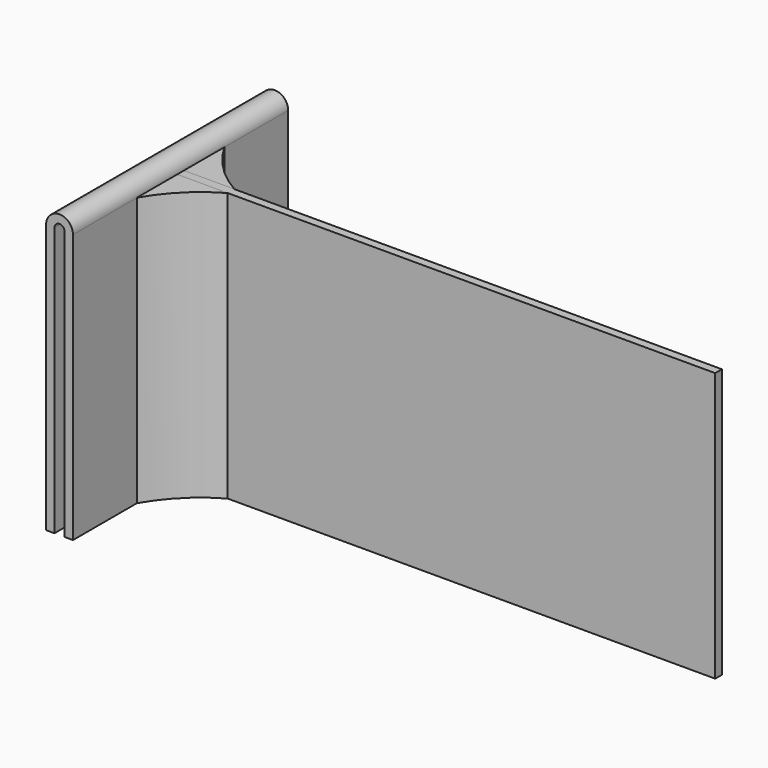
from build123d import *

# Parameters (mm, degrees)
F0_W     = 203.2
F0_H     = 101.6
F1_DEPTH = 1.5875
F3_DEPTH = 50.8
F5_DEPTH = 101.6


with BuildPart() as f1:
    # F0 (on Front) → F1 (new body, symmetric)
    with BuildSketch(Plane.XZ):
        with Locations((101.6, 50.8)):
            Rectangle(F0_W, F0_H)
    extrude(amount=F1_DEPTH, both=True)


with BuildPart() as f3:
    # F2 (on Front) → F3 (new body, symmetric)
    with BuildSketch(Plane.XZ):
        with BuildLine():
            Line((-3.175, 0), (0, 0))
            Line((0, 0), (0, 101.6))
            ThreePointArc((0, 101.6), (-5.08, 106.68), (-10.16, 101.6))
            Line((-10.16, 101.6), (-10.16, 0))
            Line((-10.16, 0), (-6.985, 0))
            Line((-6.985, 0), (-6.985, 101.6))
            ThreePointArc((-6.985, 101.6), (-5.08, 103.505), (-3.175, 101.6))
            Line((-3.175, 101.6), (-3.175, 0))
        make_face()
    extrude(amount=F3_DEPTH, both=True)


with BuildPart() as f5:
    # F4 (on Top) → F5 (new body, through all)
    with BuildSketch(Plane.XY):
        with BuildLine():
            Line((0, -1.5875), (0, -20.6375))
            ThreePointArc((0, -20.6375), (8.239136, -9.826636), (19.05, -1.5875))
            Line((19.05, -1.5875), (0, -1.5875))
        make_face()
    extrude(amount=F5_DEPTH)


with BuildPart() as f6_1:
    # F6: instance of F5
    add(f5.part.mirror(Plane.XZ))


solid = Compound([f1.part, f3.part, f5.part, f6_1.part])
